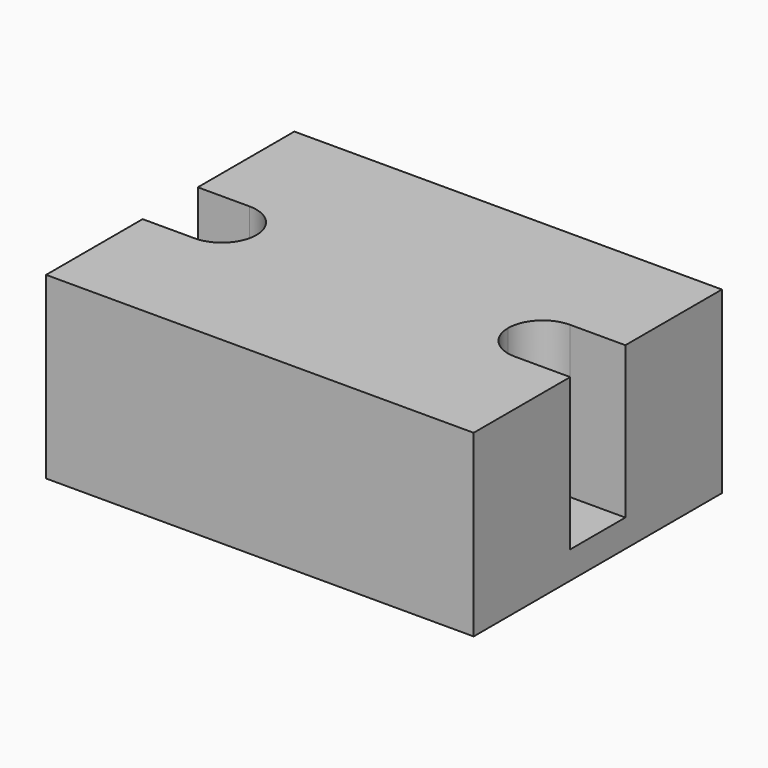
from build123d import *

# Parameters (mm, degrees)
F0_W     = 62
F0_H     = 45
F0_R     = 2.5
F1_DEPTH = 4
F3_DEPTH = 22


with BuildPart() as f1:
    # F0 (on Top) → F1 (new body)
    with BuildSketch(Plane.XY):
        with Locations((31, 22.5)):
            Rectangle(F0_W, F0_H)
        with Locations((7.5, 22.5)):
            Circle(F0_R, mode=Mode.SUBTRACT)
        with Locations((54, 22.5)):
            Circle(F0_R, mode=Mode.SUBTRACT)
    extrude(amount=F1_DEPTH)

    # F2 (on face) → F3 (join)
    with BuildSketch(Plane.XY.offset(4)):
        with BuildLine():
            Line((62, 45), (0, 45))
            Line((0, 45), (0, 27.5))
            Line((0, 27.5), (7.5, 27.5))
            ThreePointArc((7.5, 27.5), (11.035534, 26.035534), (12.5, 22.5))
            ThreePointArc((12.5, 22.5), (11.035534, 18.964466), (7.5, 17.5))
            Line((7.5, 17.5), (0, 17.5))
            Line((0, 17.5), (0, 0))
            Line((0, 0), (62, 0))
            Line((62, 0), (62, 17.5))
            Line((62, 17.5), (54, 17.5))
            ThreePointArc((54, 17.5), (50.464466, 18.964466), (49, 22.5))
            ThreePointArc((49, 22.5), (50.464466, 26.035534), (54, 27.5))
            Line((54, 27.5), (62, 27.5))
            Line((62, 27.5), (62, 45))
        make_face()
    extrude(amount=F3_DEPTH)


solid = f1.part
